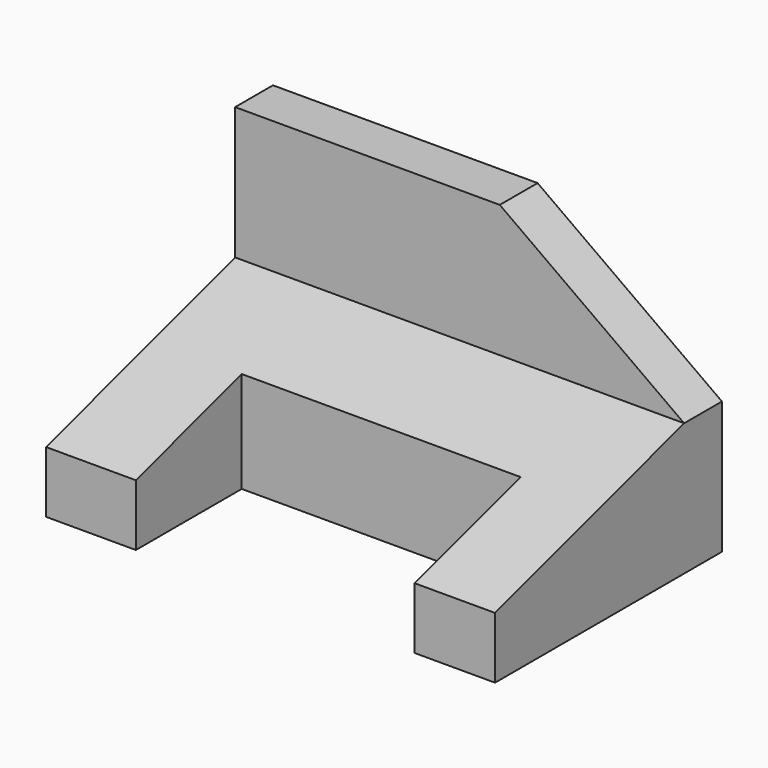
from build123d import *

# Parameters (mm, degrees)
F1_DEPTH = 95
F3_DEPTH = 10.001
F4_W     = 59
F4_H     = 28
F5_DEPTH = 41.8


with BuildPart() as f1:
    # F0 (on Right) → F1 (new body)
    with BuildSketch(Plane.YZ):
        Polygon((-60, 0), (0, 0), (0, 56), (-10, 56), (-10, 28), (-60, 13), align=None)
    extrude(amount=F1_DEPTH)

    # F2 (on face) → F3 (cut, through all)
    with BuildSketch(Plane.XZ.offset(10)):
        Polygon((95, 56), (56, 56), (95, 28), align=None)
    extrude(amount=-F3_DEPTH, mode=Mode.SUBTRACT)

    # F4 (on face) → F5 (cut)
    with BuildSketch(Plane(origin=(0, 0, 0), x_dir=(1, 0, 0), z_dir=(0, 0, -1))):
        with Locations((48.5, 46)):
            Rectangle(F4_W, F4_H)
    extrude(amount=-F5_DEPTH, mode=Mode.SUBTRACT)


solid = f1.part
